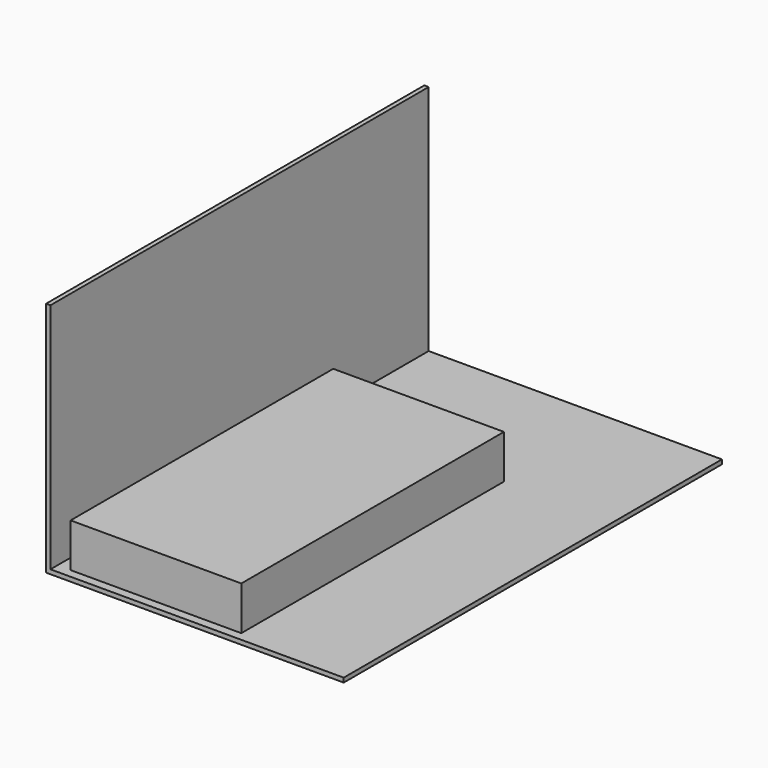
from build123d import *

# Parameters (mm, degrees)
F1_DEPTH = 25.4
F2_W     = 2743.2
F2_H     = 1348.74
F2_H_2   = 25.4
F3_DEPTH = 25.4
F4_W     = 990.6
F4_H     = 1905
F5_DEPTH = 254


with BuildPart() as f1:
    # F0 (on Top) → F1 (new body)
    with BuildSketch(Plane.XY):
        Polygon((-850.9, 2743.2), (-850.9, 0), (0, 0), (850.9, 0), (850.9, 2743.2), (0, 2743.2), align=None)
    extrude(amount=-F1_DEPTH)

    # F2 (on face) → F3 (join)
    with BuildSketch(Plane(origin=(-850.9, 0, 0), x_dir=(0, -1, 0), z_dir=(-1, 0, 0))):
        with Locations((-1371.6, 674.37)):
            Rectangle(F2_W, F2_H)
        with Locations((-1371.6, -12.7)):
            Rectangle(F2_W, F2_H_2)
    extrude(amount=F3_DEPTH)


with BuildPart() as f5:
    # F4 (on face) → F5 (new body)
    with BuildSketch(Plane.XY):
        with Locations((-279.4, 1003.3)):
            Rectangle(F4_W, F4_H)
    extrude(amount=F5_DEPTH)


solid = Compound([f1.part, f5.part])
